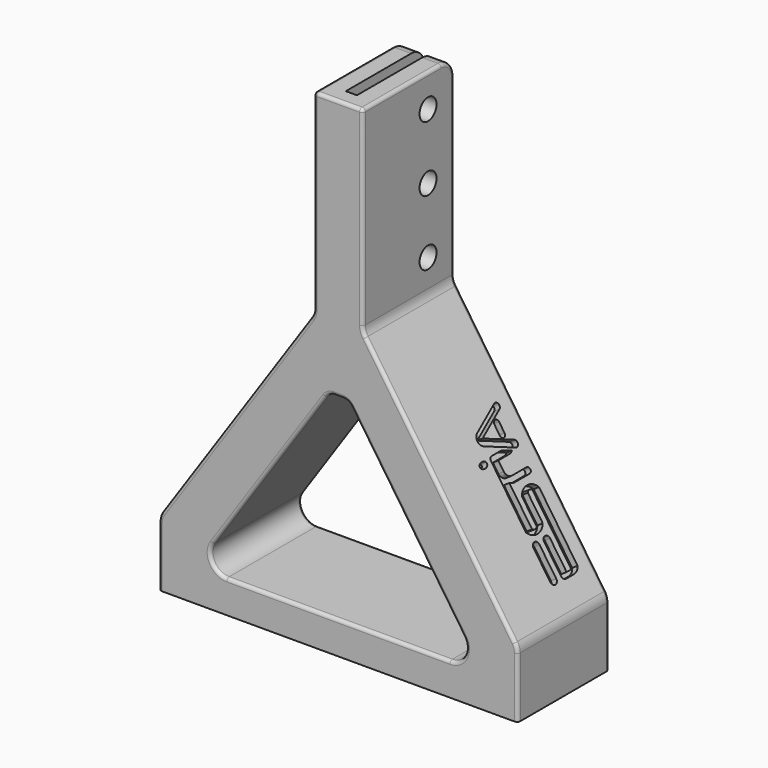
from build123d import *

# Parameters (mm, degrees)
F0_W      = 110
F0_H      = 20
F1_DEPTH  = 35
F2_W      = 3.4
F2_H      = 70
F3_DEPTH  = 30
F4_R      = 3.25
F5_DEPTH  = 25
F7_DEPTH  = 35.001
F8_R      = 5
F9_R      = 3
F10_R     = 5
F11_R     = 1
F12_R     = 1
F13_R     = 1
F15_DEPTH = 2


with BuildPart() as f1:
    # F0 (on Front) → F1 (new body)
    with BuildSketch(Plane.XZ):
        with Locations((68.5714285714, 10)):
            Rectangle(F0_W, F0_H)
        Polygon((61.0714285714, 90), (13.5714285714, 20), (123.5714285714, 20), (76.0714285714, 90), align=None)
        Polygon((68.5714285714, 101.0526315789), (61.0714285714, 90), (76.0714285714, 90), align=None)
        Polygon((61.0714285714, 150), (61.0714285714, 90), (68.5714285714, 101.0526315789), (76.0714285714, 90), (76.0714285714, 150), align=None)
    extrude(amount=F1_DEPTH)

    # F2 (on face) → F3 (cut)
    with BuildSketch(Plane(origin=(0, 0, 0), x_dir=(-1, 0, 0), z_dir=(0, 1, 0))):
        with Locations((-68.5714285714, 115)):
            Rectangle(F2_W, F2_H)
    extrude(amount=-F3_DEPTH, mode=Mode.SUBTRACT)

    # F4 (on face) → F5 (cut)
    with BuildSketch(Plane.YZ.offset(76.0714285714)):
        with Locations((-10, 140)):
            Circle(F4_R)
        with Locations((-10, 120)):
            Circle(F4_R)
        with Locations((-10, 100)):
            Circle(F4_R)
    extrude(amount=-F5_DEPTH, mode=Mode.SUBTRACT)

    # F6 (on face) → F7 (cut, through all)
    with BuildSketch(Plane(origin=(0, 0, 0), x_dir=(-1, 0, 0), z_dir=(0, 1, 0))):
        Polygon((-71.5154382332, 70), (-112.2297239475, 10), (-24.9131331954, 10), (-65.6274189097, 70), align=None)
    extrude(amount=-F7_DEPTH, mode=Mode.SUBTRACT)

    # F8
    f8_edges = [f1.edges().sort_by_distance(p)[0] for p in [
        (24.913133, -17.5, 10),
        (112.229724, -17.5, 10),
        (13.571429, -17.5, 20),
        (123.571429, -17.5, 20),
        (61.071429, -17.5, 90),
        (76.071429, -17.5, 90),
    ]]
    fillet(f8_edges, radius=F8_R)

    # F9
    f9_edges = [f1.edges().sort_by_distance(p)[0] for p in [
        (71.515438, -17.5, 70),
        (65.627419, -17.5, 70),
    ]]
    fillet(f9_edges, radius=F9_R)

    # F10
    f10_edges = [f1.edges().sort_by_distance(p)[0] for p in [
        (73.171429, 0, 150),
        (63.971429, 0, 150),
    ]]
    fillet(f10_edges, radius=F10_R)

    # F11
    f11_edges = [f1.edges().sort_by_distance(p)[0] for p in [
        (76.071429, -35, 120.768138),
        (61.071429, -35, 120.768138),
    ]]
    fillet(f11_edges, radius=F11_R)

    # F12
    f12_edges = [f1.edges().sort_by_distance(p)[0] for p in [
        (68.571429, -35, 150),
    ]]
    fillet(f12_edges, radius=F12_R)

    # F13
    f13_edges = [f1.edges().sort_by_distance(p)[0] for p in [
        (47.472923, 0, 43.246006),
        (47.472923, -35, 43.246006),
    ]]
    fillet(f13_edges, radius=F13_R)

    # F14 (on face) → F15 (cut)
    with BuildSketch(Plane(origin=(93.903930131, 0, 63.7205240175), x_dir=(0, 1, 0), z_dir=(0.8274757744, 0, 0.5615014183))):
        with BuildLine():
            ThreePointArc((-7.39691, -42.389428057), (-7.5085023164, -42.6588357407), (-7.77791, -42.770428057))
            Line((-7.77791, -42.770428057), (-9.19156, -42.770428057))
            Line((-9.19156, -42.770428057), (-9.19156, -33.770818057))
            ThreePointArc((-9.19156, -33.770818057), (-10.33456, -32.627818057), (-11.47756, -33.770818057))
            Line((-11.47756, -33.770818057), (-11.47756, -42.907248057))
            ThreePointArc((-11.47756, -42.907248057), (-11.1260881374, -43.7557761945), (-10.27756, -44.107248057))
            Line((-10.27756, -44.107248057), (-7.3415622471, -44.107248057))
            ThreePointArc((-7.3415622471, -44.107248057), (-5.9934152346, -43.7495106005), (-5, -42.770428057))
            Line((-5, -42.770428057), (-5, -21.7097182665))
            ThreePointArc((-5, -21.7097182665), (-8.1953654076, -19.9118808439), (-11.47756, -21.5458264194))
            Line((-11.47756, -21.5458264194), (-11.47756, -29.7319929648))
            ThreePointArc((-11.47756, -29.7319929648), (-12.3791235209, -30.0442725829), (-13.26801, -29.6975505479))
            Line((-13.26801, -29.6975505479), (-13.26801, -17.3213335826))
            ThreePointArc((-13.26801, -17.3213335826), (-12.3963505956, -17.6932012527), (-11.45723, -17.820198057))
            Line((-11.45723, -17.820198057), (-5.85734, -17.820198057))
            ThreePointArc((-5.85734, -17.820198057), (-4.99482, -16.957678057), (-5.85734, -16.095158057))
            Line((-5.85734, -16.095158057), (-11.45723, -16.095158057))
            ThreePointArc((-11.45723, -16.095158057), (-12.7376448172, -15.5647928743), (-13.26801, -14.284378057))
            Line((-13.26801, -14.284378057), (-13.26801, -11.295158057))
            Line((-13.26801, -11.295158057), (-8.99429, -11.295158057))
            ThreePointArc((-8.99429, -11.295158057), (-8.3556712039, -11.1905981156), (-7.7837423225, -10.8878373145))
            Line((-7.7837423225, -10.8878373145), (-10.7806342513, -9.578398057))
            Line((-10.7806342513, -9.578398057), (-14.60151, -9.578398057))
            ThreePointArc((-14.60151, -9.578398057), (-15.2750292091, -9.857378848), (-15.55401, -10.530898057))
            Line((-15.55401, -10.530898057), (-15.55401, -29.6749688929))
            ThreePointArc((-15.55401, -29.6749688929), (-12.3872480124, -31.3357744138), (-9.19156, -29.7313322704))
            Line((-9.19156, -29.7313322704), (-9.19156, -21.5494478814))
            ThreePointArc((-9.19156, -21.5494478814), (-8.2941290281, -21.1170780915), (-7.39691, -21.5498875186))
            Line((-7.39691, -21.5498875186), (-7.39691, -42.389428057))
        make_face()
        with BuildLine():
            ThreePointArc((-15.55401, -42.907248057), (-14.41101, -44.050248057), (-13.26801, -42.907248057))
            Line((-13.26801, -42.907248057), (-13.26801, -33.770818057))
            ThreePointArc((-13.26801, -33.770818057), (-14.41101, -32.627818057), (-15.55401, -33.770818057))
            Line((-15.55401, -33.770818057), (-15.55401, -42.907248057))
        make_face()
        with BuildLine():
            Line((-5.4666149713, -8.8973021589), (-14.7725599426, -4.831233057))
            Line((-14.7725599426, -4.831233057), (-5.4666149713, -0.7651639552))
            ThreePointArc((-5.4666149713, -0.7651639552), (-4.9630941019, 0.5198069716), (-6.2480650287, 1.0233278411))
            Line((-6.2480650287, 1.0233278411), (-15.55401, -3.0427412608))
            ThreePointArc((-15.55401, -3.0427412608), (-16.7243199426, -4.831233057), (-15.55401, -6.6197248533))
            Line((-15.55401, -6.6197248533), (-6.2480650287, -10.6857939552))
            ThreePointArc((-6.2480650287, -10.6857939552), (-4.9630941019, -10.1822730857), (-5.4666149713, -8.8973021589))
        make_face()
        with BuildLine():
            ThreePointArc((-9.19156, -6.331233057), (-8.294235, -7.228558057), (-7.39691, -6.331233057))
            Line((-7.39691, -6.331233057), (-7.39691, -3.331233057))
            ThreePointArc((-7.39691, -3.331233057), (-8.294235, -2.433908057), (-9.19156, -3.331233057))
            Line((-9.19156, -3.331233057), (-9.19156, -6.331233057))
        make_face()
        with BuildLine():
            add(Edge.make_bspline(
                [(-19.778765, -10.530898057), (-19.778765, -12.0897437839), (-17.7781475, -11.3103209205), (-15.77753, -10.530898057), (-17.7781475, -9.7514751936), (-19.778765, -8.9720523302), (-19.778765, -10.530898057)],
                knots=[0, 0, 0, 2.0943951024, 2.0943951024, 4.1887902048, 4.1887902048, 6.2831853072, 6.2831853072, 6.2831853072], degree=2, weights=[1, 0.5, 1, 0.5, 1, 0.5, 1]))
        make_face()
    extrude(amount=-F15_DEPTH, mode=Mode.SUBTRACT)


solid = f1.part
